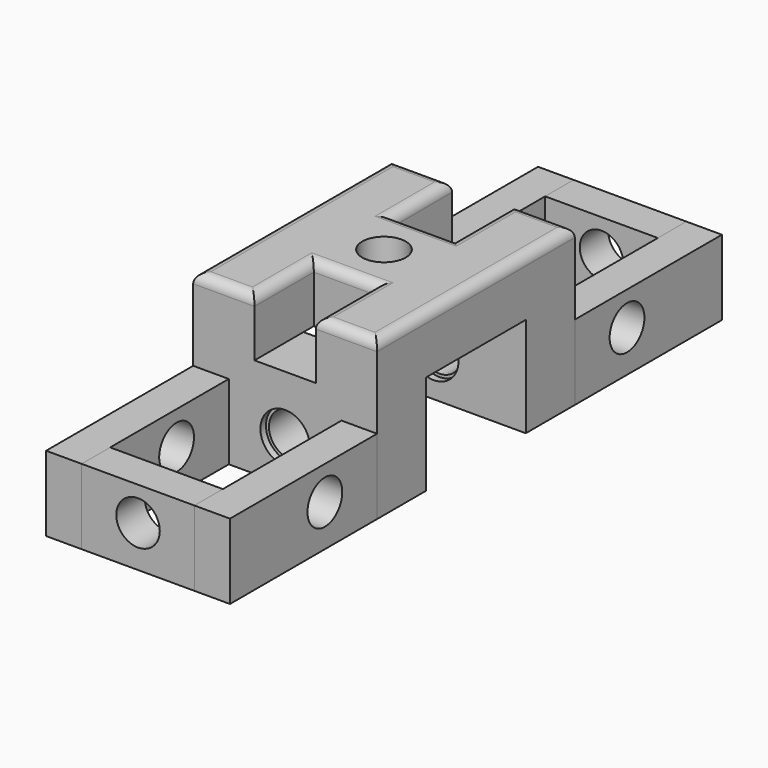
from build123d import *

# Parameters (mm, degrees)
F0_R      = 2.794
F1_DEPTH  = 7.366
F2_W      = 23.622
F2_H      = 7.874
F3_DEPTH  = 12.827
F4_R      = 2.794
F5_DEPTH  = 31.75
F6_W      = 4.572
F6_H      = 9.652
F7_DEPTH  = 23.622
F8_R      = 2.794
F9_DEPTH  = 4.572
F11_W     = 4.572
F11_H     = 9.652
F12_DEPTH = 14.478
F13_R     = 2.794
F14_DEPTH = 4.572
F16_R     = 1.27
F17_R     = 3.175
F18_DEPTH = 0.889
F19_R     = 3.175
F19_R_2   = 2.794
F20_DEPTH = 0.889
F21_R     = 3.175
F21_R_2   = 2.794
F22_DEPTH = 0.889
F23_R     = 3.175
F23_R_2   = 2.794
F24_DEPTH = 0.889


with BuildPart() as f1:
    # F0 (on Top) → F1 (new body)
    with BuildSketch(Plane.XY):
        Polygon((-3.937, 15.875), (-11.811, 15.875), (-11.811, 0), (-11.811, -15.875), (-3.937, -15.875), (-3.937, -6.35), (0, -6.35), (3.937, -6.35), (3.937, -15.875), (11.811, -15.875), (11.811, 0), (11.811, 15.875), (3.937, 15.875), (3.937, 6.35), (0, 6.35), (-3.937, 6.35), align=None)
        Circle(F0_R, mode=Mode.SUBTRACT)
    extrude(amount=F1_DEPTH)

    # F2 (on face) → F3 (join)
    with BuildSketch(Plane(origin=(0, 0, 0), x_dir=(1, 0, 0), z_dir=(0, 0, -1))):
        with Locations((0, -11.938)):
            Rectangle(F2_W, F2_H)
        with Locations((0, 11.938)):
            Rectangle(F2_W, F2_H)
    extrude(amount=F3_DEPTH)

    # F4 (on face) → F5 (cut, through all)
    with BuildSketch(Plane(origin=(0, 15.875, 0), x_dir=(-1, 0, 0), z_dir=(0, 1, 0))):
        with Locations((0, -7.493)):
            Circle(F4_R)
    extrude(amount=-F5_DEPTH, mode=Mode.SUBTRACT)

    # F16
    f16_edges = [f1.edges().sort_by_distance(p)[0] for p in [
        (-11.811, 0, 7.366),
        (-7.874, 15.875, 7.366),
        (-3.937, 11.1125, 7.366),
        (0, 6.35, 7.366),
        (3.937, 11.1125, 7.366),
        (7.874, 15.875, 7.366),
        (11.811, 0, 7.366),
        (7.874, -15.875, 7.366),
        (3.937, -11.1125, 7.366),
        (0, -6.35, 7.366),
        (-7.874, -15.875, 7.366),
        (-3.937, -11.1125, 7.366),
    ]]
    fillet(f16_edges, radius=F16_R)

    # F17 (on face) → F18 (cut)
    with BuildSketch(Plane.XZ.offset(-8.001)):
        with Locations((0, -7.493)):
            Circle(F17_R)
    extrude(amount=-F18_DEPTH, mode=Mode.SUBTRACT)

    # F19 (on face) → F20 (cut)
    with BuildSketch(Plane(origin=(0, -8.001, 0), x_dir=(-1, 0, 0), z_dir=(0, 1, 0))):
        with Locations((0, -7.493)):
            Circle(F19_R)
        with Locations((0, -7.493)):
            Circle(F19_R_2, mode=Mode.SUBTRACT)
    extrude(amount=-F20_DEPTH, mode=Mode.SUBTRACT)

    # F21 (on face) → F22 (cut)
    with BuildSketch(Plane.XZ.offset(15.875)):
        with Locations((0, -7.493)):
            Circle(F21_R)
        with Locations((0, -7.493)):
            Circle(F21_R_2, mode=Mode.SUBTRACT)
    extrude(amount=-F22_DEPTH, mode=Mode.SUBTRACT)

    # F23 (on face) → F24 (cut)
    with BuildSketch(Plane(origin=(0, 15.875, 0), x_dir=(-1, 0, 0), z_dir=(0, 1, 0))):
        with Locations((0, -7.493)):
            Circle(F23_R)
        with Locations((0, -7.493)):
            Circle(F23_R_2, mode=Mode.SUBTRACT)
    extrude(amount=-F24_DEPTH, mode=Mode.SUBTRACT)


with BuildPart() as f7:
    # F6 (on face) → F7 (new body)
    with BuildSketch(Plane.XZ.offset(15.875)):
        with Locations((-9.525, -8.001)):
            Rectangle(F6_W, F6_H)
    extrude(amount=F7_DEPTH)

    # F8 (on face) → F9 (cut, through all)
    with BuildSketch(Plane(origin=(-11.811, 0, 0), x_dir=(0, -1, 0), z_dir=(-1, 0, 0))):
        with Locations((24.257, -7.493)):
            Circle(F8_R)
    extrude(amount=-F9_DEPTH, mode=Mode.SUBTRACT)


with BuildPart() as f10_1:
    # F10: instance of F7
    add(f7.part.mirror(Plane.YZ))


with BuildPart() as f12:
    # F11 (on face) → F12 (new body, through all)
    with BuildSketch(Plane(origin=(7.239, 0, 0), x_dir=(0, -1, 0), z_dir=(-1, 0, 0))):
        with Locations((37.211, -8.001)):
            Rectangle(F11_W, F11_H)
    extrude(amount=F12_DEPTH)

    # F13 (on face) → F14 (cut, through all)
    with BuildSketch(Plane.XZ.offset(39.497)):
        with Locations((0, -7.493)):
            Circle(F13_R)
    extrude(amount=-F14_DEPTH, mode=Mode.SUBTRACT)


with BuildPart() as f15_1:
    # F15: instance of F7
    add(f7.part.mirror(Plane.XZ))


with BuildPart() as f15_2:
    # F15: instance of F12
    add(f12.part.mirror(Plane.XZ))


with BuildPart() as f15_3:
    # F15: instance of F10_1
    add(f10_1.part.mirror(Plane.XZ))


solid = Compound([f1.part, f7.part, f10_1.part, f12.part, f15_1.part, f15_2.part, f15_3.part])
